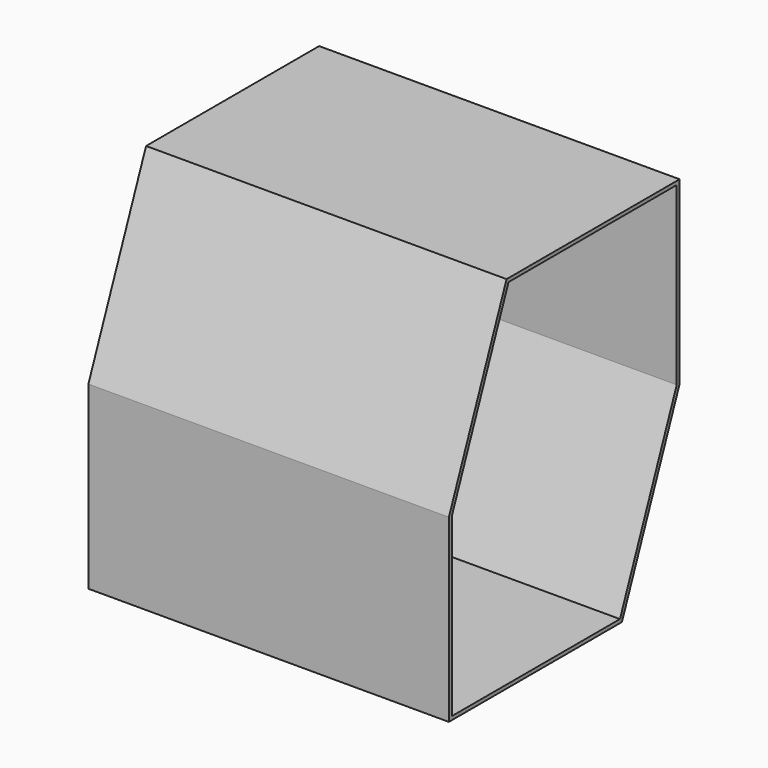
from build123d import *

# Parameters (mm, degrees)
F0_W     = 254
F0_H     = 254
F1_DEPTH = 203.2
F2_SIZE2 = 127
F2_SIZE  = 50.8
F3_T     = -2.54


with BuildPart() as f1:
    # F0 (on Front) → F1 (new body)
    with BuildSketch(Plane.XZ):
        with Locations((127, 127)):
            Rectangle(F0_W, F0_H)
    extrude(amount=F1_DEPTH)

    # F2
    f2_edges = [f1.edges().sort_by_distance(p)[0] for p in [
        (127, -203.2, 254),
        (127, 0, 0),
    ]]
    chamfer(f2_edges, length=F2_SIZE, length2=F2_SIZE2)

    # F3
    f3_openings = [f1.faces().sort_by_distance(p)[0] for p in [
        (254, -101.6, 127),
    ]]
    offset(amount=F3_T, openings=f3_openings)


solid = f1.part
